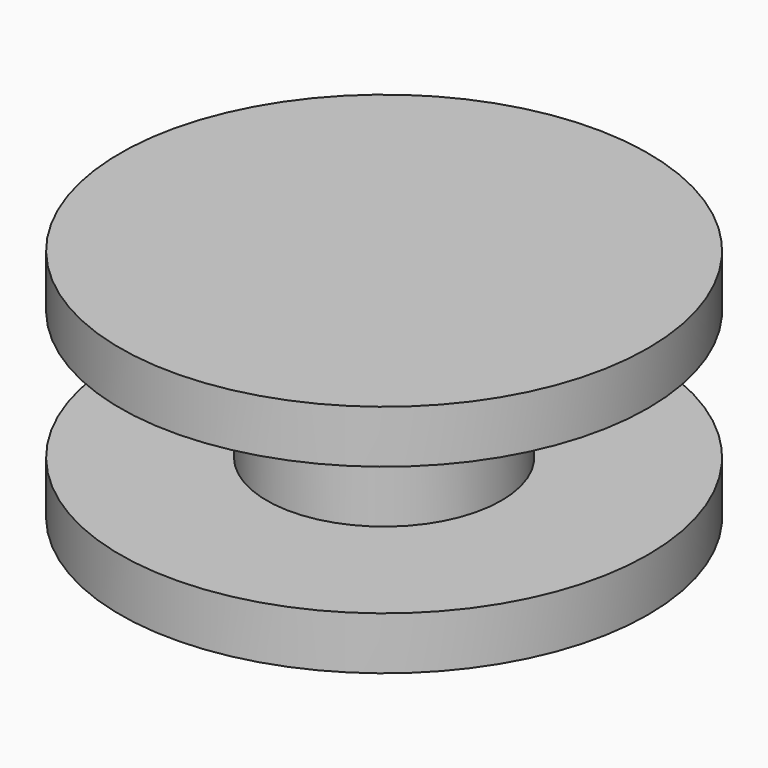
from build123d import *

# Parameters (mm, degrees)
F0_R     = 5.715
F0_R_2   = 2.54
F1_DEPTH = 2.54
F2_DEPTH = 1.397


with BuildPart() as f1:
    # F0 (on Top) → F1 (new body, symmetric)
    with BuildSketch(Plane.XY):
        Circle(F0_R)
        Circle(F0_R_2, mode=Mode.SUBTRACT)
        Circle(F0_R_2)
    extrude(amount=F1_DEPTH, both=True)

    # F0 (on Top) → F2 (cut, symmetric)
    with BuildSketch(Plane.XY):
        Circle(F0_R)
        Circle(F0_R_2, mode=Mode.SUBTRACT)
    extrude(amount=F2_DEPTH, both=True, mode=Mode.SUBTRACT)


solid = f1.part
